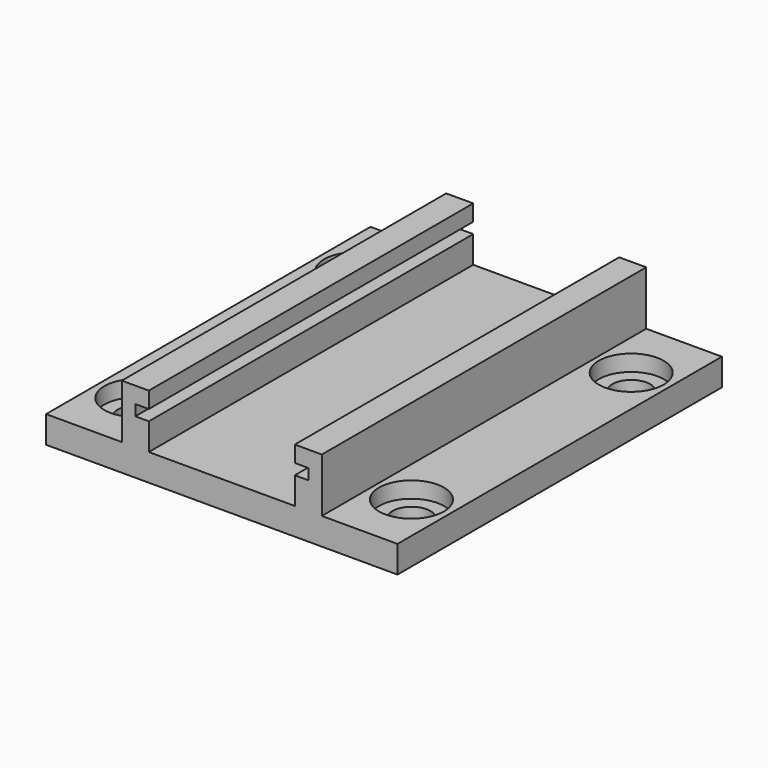
from build123d import *

# Parameters (mm, degrees)
F1_DEPTH       = 75
F3_D           = 7
F3_CBORE_D     = 12
F3_CBORE_DEPTH = 3


with BuildPart() as f1:
    # F0 (on Front) → F1 (new body)
    with BuildSketch(Plane.XZ):
        Polygon((-32.5, 0), (0, 0), (32.5, 0), (32.5, 5), (18.5, 5), (18.5, 15), (13.5, 15), (13.5, 12), (16, 12), (16, 10), (13.5, 10), (13.5, 5), (0, 5), (-13.5, 5), (-13.5, 10), (-16, 10), (-16, 12), (-13.5, 12), (-13.5, 15), (-18.5, 15), (-18.5, 5), (-32.5, 5), align=None)
    extrude(amount=F1_DEPTH)

    # F3 (through all)
    with Locations(Plane.XY.offset(5)):
        with Locations((-25.4, -12.1), (-25.4, -62.9), (25.4, -62.9), (25.4, -12.1)):
            CounterBoreHole(F3_D / 2, F3_CBORE_D / 2, F3_CBORE_DEPTH)


solid = f1.part
